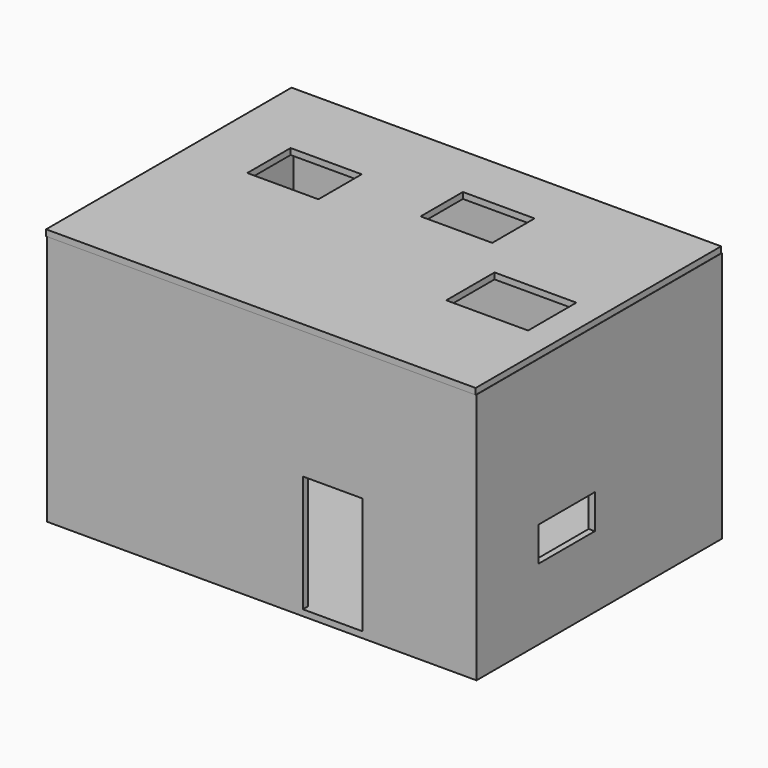
from build123d import *

# Parameters (mm, degrees)
F0_W      = 7000
F0_H      = 5000
F1_DEPTH  = 4100
F2_T      = -100
F4_W      = 7001.7721652985
F4_H      = 5001.2657642365
F5_DEPTH  = 100
F6_W      = 1159.2469215393
F6_H      = 882.5842142105
F6_W_2    = 1168.2131290436
F6_H_2    = 862.3332977295
F6_W_3    = 1333.6598873138
F6_H_3    = 983.7473630905
F7_DEPTH  = 150
F8_W      = 1143.9567655325
F8_H      = 561.0218048096
F9_DEPTH  = 150
F10_W     = 1378.2457113266
F10_H     = 501.2377500534
F10_W_2   = 1474.2147922516
F10_H_2   = 581.7452669144
F11_DEPTH = 150
F12_W     = 974.6417999268
F12_H     = 1905.9120416641
F13_DEPTH = 150


with BuildPart() as f1:
    # F0 (on Top) → F1 (new body)
    with BuildSketch(Plane.XY):
        with Locations((5.3243301809, 286.2890493809)):
            Rectangle(F0_W, F0_H)
    extrude(amount=F1_DEPTH)

    # F2
    f2_openings = [f1.faces().sort_by_distance(p)[0] for p in [
        (5.32433, 286.289049, 4100),
    ]]
    offset(amount=F2_T, openings=f2_openings)

    # F4 (on 3pt) → F5 (join)
    with BuildSketch(Plane.XY.offset(4100)):
        with Locations((0.7160902023, 273.8202810287)):
            Rectangle(F4_W, F4_H)
    extrude(amount=F5_DEPTH)

    # F6 (on 3pt) → F7 (cut)
    with BuildSketch(Plane.XY.offset(4100)):
        with Locations((-1889.9548053741, 1025.607407093)):
            Rectangle(F6_W, F6_H)
        with Locations((584.1065645218, 1459.6139192581)):
            Rectangle(F6_W_2, F6_H_2)
        with Locations((2366.5949106216, -81.4886689186)):
            Rectangle(F6_W_3, F6_H_3)
    extrude(amount=F7_DEPTH, mode=Mode.SUBTRACT)

    # F8 (on face) → F9 (cut)
    with BuildSketch(Plane.YZ.offset(3505.3243301809)):
        with Locations((-375.899143517, 1441.0707950592)):
            Rectangle(F8_W, F8_H)
    extrude(amount=-F9_DEPTH, mode=Mode.SUBTRACT)

    # F10 (on face) → F11 (cut)
    with BuildSketch(Plane(origin=(0, 2786.2890493809, 0), x_dir=(-1, 0, 0), z_dir=(0, 1, 0))):
        with Locations((-1673.8589406013, 1384.5381140709)):
            Rectangle(F10_W, F10_H)
        with Locations((1347.2708463669, 1306.2437176704)):
            Rectangle(F10_W_2, F10_H_2)
    extrude(amount=-F11_DEPTH, mode=Mode.SUBTRACT)

    # F12 (on face) → F13 (cut)
    with BuildSketch(Plane.XZ.offset(2213.7109506191)):
        with Locations((1163.1864309311, 1052.9560208321)):
            Rectangle(F12_W, F12_H)
    extrude(amount=-F13_DEPTH, mode=Mode.SUBTRACT)


solid = f1.part
